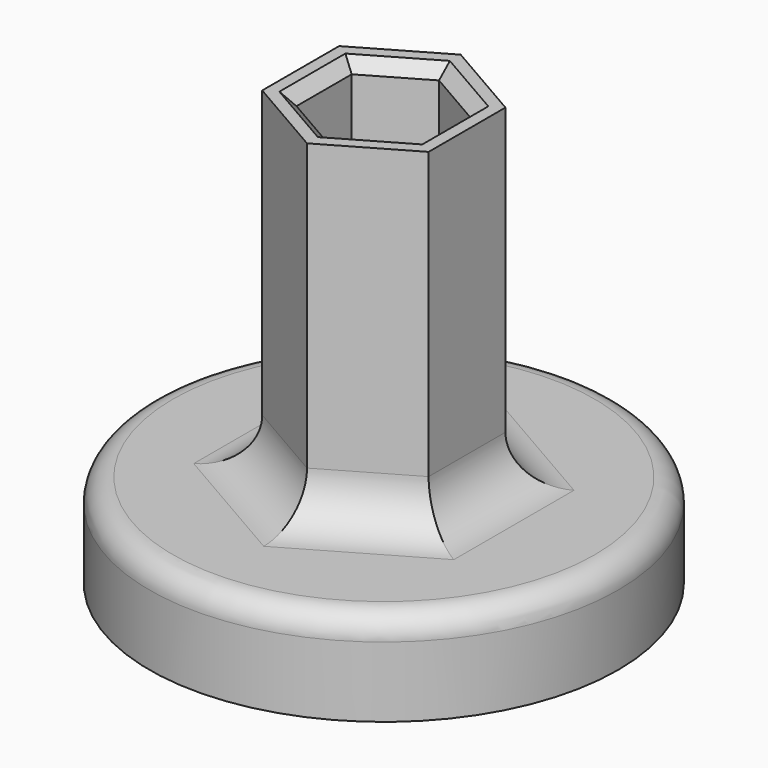
from build123d import *

# Parameters (mm, degrees)
SKETCH015_R     = 10
PAD008_DEPTH    = 4
PAD009_DEPTH    = 14.2
FILLET002_R     = 2
FILLET003_R     = 1
CHAMFER_SIZE    = 0.5
SKETCH018_R     = 3
POCKET001_DEPTH = 2.5
SKETCH017_R     = 1.35
POCKET002_DEPTH = 4.001
FILLET004_R     = 1


with BuildPart() as part:
    # Sketch015 → Pad008 (new body)
    with BuildSketch(Plane.XY):
        Circle(SKETCH015_R)
    extrude(amount=-PAD008_DEPTH)

    # Sketch016 → Pad009 (join)
    with BuildSketch(Plane.XY):
        Polygon((3.55, -2.049593), (3.55, 2.049593), (0, 4.099187), (-3.55, 2.049593), (-3.55, -2.049593), (0, -4.099187), align=None)
        Polygon((2.55, -1.472243), (2.55, 1.472243), (0, 2.944486), (-2.55, 1.472243), (-2.55, -1.472243), (0, -2.944486), align=None, mode=Mode.SUBTRACT)
    extrude(amount=PAD009_DEPTH)

    # Fillet002
    fillet002_edges = [part.edges().sort_by_distance(p)[0] for p in [
        (-1.775, -3.07439, 0),
        (1.775, -3.07439, 0),
        (3.55, 0, 0),
        (1.775, 3.07439, 0),
        (-1.775, 3.07439, 0),
        (-3.55, 0, 0),
    ]]
    fillet(fillet002_edges, radius=FILLET002_R)

    # Fillet003
    fillet003_edges = [part.edges().sort_by_distance(p)[0] for p in [
        (-10, 0, 0),
    ]]
    fillet(fillet003_edges, radius=FILLET003_R)

    # Chamfer
    chamfer_edges = [part.edges().sort_by_distance(p)[0] for p in [
        (1.275, -2.208365, 14.2),
        (2.55, 0, 14.2),
        (1.275, 2.208365, 14.2),
        (-1.275, 2.208365, 14.2),
        (-2.55, 0, 14.2),
        (-1.275, -2.208365, 14.2),
    ]]
    chamfer(chamfer_edges, length=CHAMFER_SIZE)

    # Sketch018 (on Face30 of Chamfer) → Pocket001 (cut)
    with BuildSketch(Plane(origin=(0, 0, -4), x_dir=(1, 0, 0), z_dir=(0, 0, -1))):
        Circle(SKETCH018_R)
    extrude(amount=-POCKET001_DEPTH, mode=Mode.SUBTRACT)

    # Sketch017 → Pocket002 (cut, through all)
    with BuildSketch(Plane.XY):
        Circle(SKETCH017_R)
    extrude(amount=-POCKET002_DEPTH, mode=Mode.SUBTRACT)

    # Fillet004
    fillet004_edges = [part.edges().sort_by_distance(p)[0] for p in [
        (-3, 0, -1.5),
    ]]
    fillet(fillet004_edges, radius=FILLET004_R)


solid = part.part
